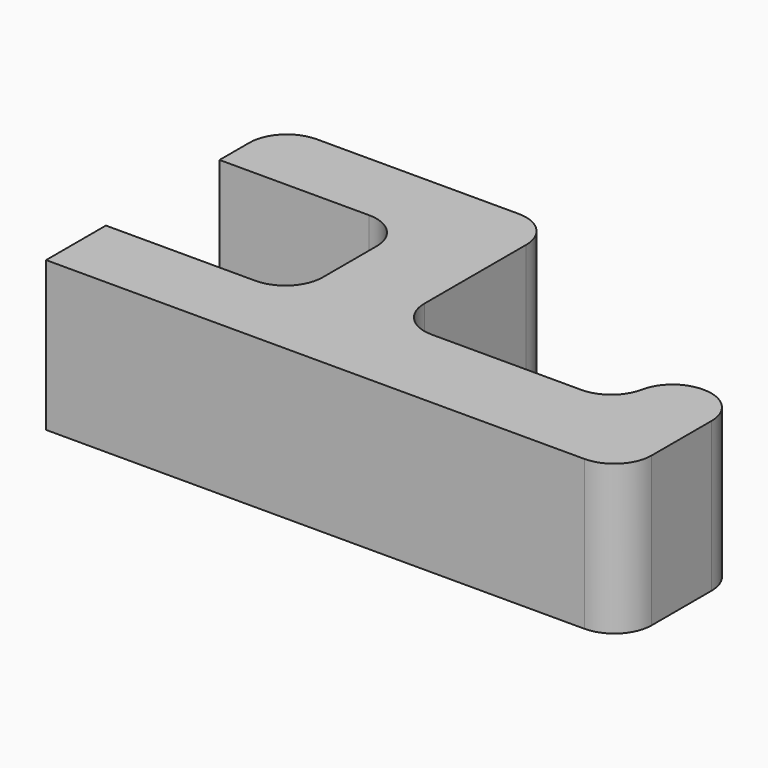
from build123d import *

# Parameters (mm, degrees)
F1_DEPTH = 20
F2_R     = 5
F3_R     = 5
F4_ANGLE = 90


with BuildPart() as f1:
    # F0 (on Front) → F1 (new body)
    with BuildSketch(Plane.XZ):
        with BuildLine():
            Line((32, 39), (5, 39))
            ThreePointArc((5, 39), (1.4644660941, 37.5355339059), (0, 34))
            Line((0, 34), (0, 29))
            Line((0, 29), (20, 29))
            ThreePointArc((20, 29), (23.5355339059, 27.5355339059), (25, 24))
            Line((25, 24), (25, 15))
            ThreePointArc((25, 15), (23.5355339059, 11.4644660941), (20, 10))
            Line((20, 10), (0, 10))
            Line((0, 10), (0, 0))
            Line((0, 0), (72, 0))
            ThreePointArc((72, 0), (75.5355339059, 1.4644660941), (77, 5))
            Line((77, 5), (77, 20))
            Line((77, 20), (67, 20))
            Line((67, 20), (67, 17))
            ThreePointArc((67, 17), (65.5355339059, 13.4644660941), (62, 12))
            Line((62, 12), (42, 12))
            ThreePointArc((42, 12), (38.4644660941, 13.4644660941), (37, 17))
            Line((37, 17), (37, 34))
            ThreePointArc((37, 34), (35.5355339059, 37.5355339059), (32, 39))
        make_face()
    extrude(amount=F1_DEPTH)

    # F2
    f2_edges = [f1.edges().sort_by_distance(p)[0] for p in [
        (67, -10, 20),
    ]]
    fillet(f2_edges, radius=F2_R)

    # F3
    f3_edges = [f1.edges().sort_by_distance(p)[0] for p in [
        (77, -10, 20),
    ]]
    fillet(f3_edges, radius=F3_R)


with BuildPart() as f1_1:
    # F4: moved
    add(f1.part.rotate(Axis((36, 0, 0), (-1, 0, 0)), F4_ANGLE))


solid = f1_1.part
